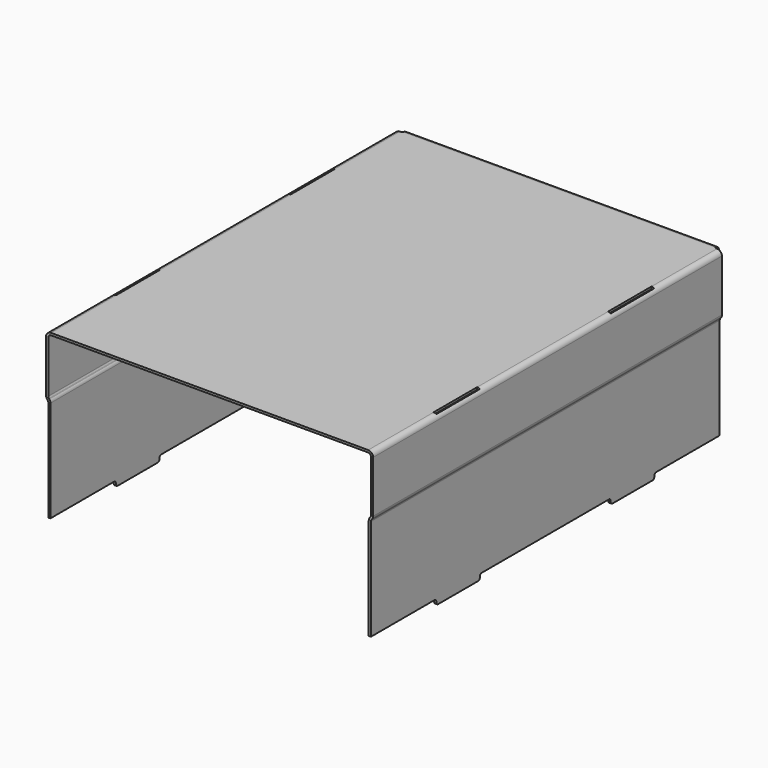
from build123d import *

# Parameters (mm, degrees)
F1_DEPTH      = 400
F2_W          = 150
F2_H          = 5
F2_W_2        = 75
F3_DEPTH      = 645
F4_W          = 2.5
F4_H          = 50
F5_DEPTH      = 21
F6_R          = 2
F8_DEPTH      = 143
F8_DEPTH_BACK = 143
F9_R          = 2


with BuildPart() as f1:
    # F0 (on Front) → F1 (new body)
    with BuildSketch(Plane.XZ):
        with BuildLine():
            ThreePointArc((150, 73), (148.6819805153, 76.1819805153), (145.5, 77.5))
            Line((145.5, 77.5), (0, 77.5))
            Line((0, 77.5), (-145.5, 77.5))
            ThreePointArc((-145.5, 77.5), (-148.6819805153, 76.1819805153), (-150, 73))
            Line((-150, 73), (-150, 25.5))
            ThreePointArc((-150, 25.5), (-149.7286167935, 23.960909355), (-148.947199994, 22.6074557564))
            Line((-148.947199994, 22.6074557564), (-148.5848888922, 22.1756701992))
            ThreePointArc((-148.5848888922, 22.1756701992), (-148.150768448, 21.4237515333), (-148, 20.5687011749))
            Line((-148, 20.5687011749), (-148, -77.5))
            Line((-148, -77.5), (-146, -77.5))
            Line((-146, -77.5), (-146, 20.5687011749))
            ThreePointArc((-146, 20.5687011749), (-146.2713832065, 22.1077918199), (-147.052800006, 23.4612454185))
            Line((-147.052800006, 23.4612454185), (-147.4151111078, 23.8930309758))
            ThreePointArc((-147.4151111078, 23.8930309758), (-147.849231552, 24.6449496417), (-148, 25.5))
            Line((-148, 25.5), (-148, 73))
            ThreePointArc((-148, 73), (-147.267766953, 74.767766953), (-145.5, 75.5))
            Line((-145.5, 75.5), (0, 75.5))
            Line((0, 75.5), (145.5, 75.5))
            ThreePointArc((145.5, 75.5), (147.267766953, 74.767766953), (148, 73))
            Line((148, 73), (148, 25.5))
            ThreePointArc((148, 25.5), (147.849231552, 24.6449496417), (147.4151111078, 23.8930309758))
            Line((147.4151111078, 23.8930309758), (147.052800006, 23.4612454185))
            ThreePointArc((147.052800006, 23.4612454185), (146.2713832065, 22.1077918199), (146, 20.5687011749))
            Line((146, 20.5687011749), (146, -77.5))
            Line((146, -77.5), (148, -77.5))
            Line((148, -77.5), (148, 20.5687011749))
            ThreePointArc((148, 20.5687011749), (148.150768448, 21.4237515333), (148.5848888922, 22.1756701992))
            Line((148.5848888922, 22.1756701992), (148.947199994, 22.6074557564))
            ThreePointArc((148.947199994, 22.6074557564), (149.7286167935, 23.960909355), (150, 25.5))
            Line((150, 25.5), (150, 73))
        make_face()
    extrude(amount=F1_DEPTH)

    # F2 (on face) → F3 (cut)
    with BuildSketch(Plane.YZ.offset(148)):
        with Locations((-200, -75)):
            Rectangle(F2_W, F2_H)
        with Locations((-37.5, -75)):
            Rectangle(F2_W_2, F2_H)
        with Locations((-362.5, -75)):
            Rectangle(F2_W_2, F2_H)
    extrude(amount=-F3_DEPTH, mode=Mode.SUBTRACT)

    # F4 (on face) → F5 (cut)
    with BuildSketch(Plane.XY.offset(77.5)):
        with Locations((146.75, -100)):
            Rectangle(F4_W, F4_H)
        with Locations((146.75, -300)):
            Rectangle(F4_W, F4_H)
        with Locations((-146.75, -100)):
            Rectangle(F4_W, F4_H)
        with Locations((-146.75, -300)):
            Rectangle(F4_W, F4_H)
    extrude(amount=-F5_DEPTH, mode=Mode.SUBTRACT)

    # F6
    f6_edges = [f1.edges().sort_by_distance(p)[0] for p in [
        (147, -125, -72.5),
        (147, -325, -72.5),
        (-147, -325, -72.5),
        (-147, -125, -72.5),
        (147, -75, -72.5),
        (147, -275, -72.5),
        (-147, -275, -72.5),
        (-147, -75, -72.5),
        (147, -325, -77.5),
        (147, -125, -77.5),
        (-147, -325, -77.5),
        (-147, -125, -77.5),
        (147, -275, -77.5),
        (147, -75, -77.5),
        (-147, -275, -77.5),
        (-147, -75, -77.5),
    ]]
    fillet(f6_edges, radius=F6_R)

    # F7 (on Right) → F8 (join, two sides)
    with BuildSketch(Plane.YZ) as f8_sk:
        with BuildLine():
            Line((1, 77.5), (0, 77.5))
            Line((0, 77.5), (0, 75.5))
            Line((0, 75.5), (1, 75.5))
            ThreePointArc((1, 75.5), (2.767766953, 74.767766953), (3.5, 73))
            Line((3.5, 73), (3.5, 72))
            Line((3.5, 72), (5.5, 72))
            Line((5.5, 72), (5.5, 73))
            ThreePointArc((5.5, 73), (4.1819805153, 76.1819805153), (1, 77.5))
        make_face()
    extrude(amount=F8_DEPTH)
    extrude(f8_sk.sketch, amount=-F8_DEPTH_BACK)

    # F9 (call 1 of 4: OpenCascade refuses the feature's edges together)
    f9_edges = [f1.edges().sort_by_distance(p)[0] for p in [
        (143, 0, 76.5),
    ]]
    fillet(f9_edges, radius=F9_R)

    # F9#2 (call 2 of 4)
    f9_2_edges = [f1.edges().sort_by_distance(p)[0] for p in [
        (-143, 0, 76.5),
    ]]
    fillet(f9_2_edges, radius=F9_R)

    # F9#3 (call 3 of 4)
    f9_3_edges = [f1.edges().sort_by_distance(p)[0] for p in [
        (-143, 4.5, 72),
    ]]
    fillet(f9_3_edges, radius=F9_R)

    # F9#4 (call 4 of 4)
    f9_4_edges = [f1.edges().sort_by_distance(p)[0] for p in [
        (143, 4.5, 72),
    ]]
    fillet(f9_4_edges, radius=F9_R)


solid = f1.part
